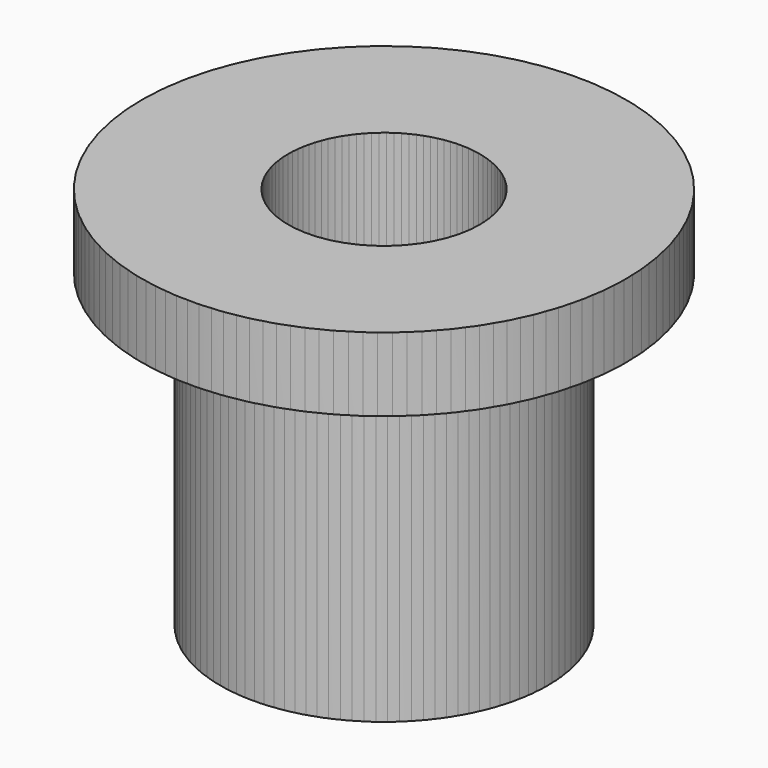
from build123d import *

# Parameters (mm, degrees)
F3_ANGLE = 135


with BuildPart() as f1:
    # F0 (on Front) → F1 (revolve)
    with BuildSketch(Plane.XZ):
        Polygon((19.014392, 0), (19.014392, -76.164395), (32.474022, -76.164395), (32.474022, -14.634673), (48.070095, -14.634673), (48.070095, 0), align=None)
    revolve(axis=Axis((0, 0, -0.213642), (0, 0, -1)))


with BuildPart() as f3_1:
    # F3: copy of F1
    add(f1.part.rotate(Axis((0, 0, 0.379678), (0, 0, 1)), F3_ANGLE))


solid = Compound([f1.part, f3_1.part])
